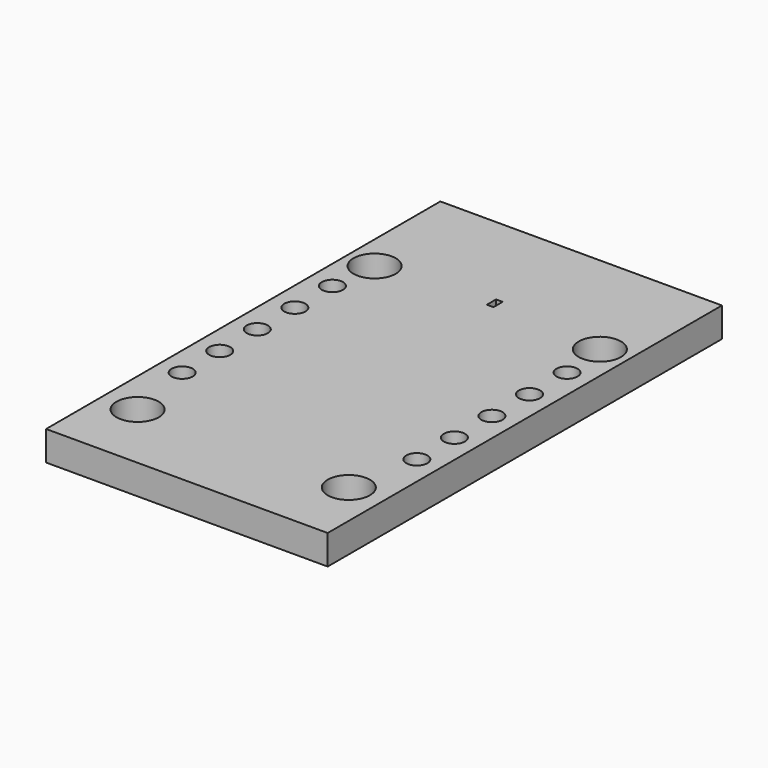
from build123d import *

# Parameters (mm, degrees)
F0_W     = 15.24
F0_H     = 26.67
F0_R     = 1.143
F0_R_2   = 0.5715
F0_W_2   = 0.357356
F0_H_2   = 0.6212
F1_DEPTH = 1.6


with BuildPart() as f1:
    # F0 (on Top) → F1 (new body)
    with BuildSketch(Plane.XY):
        Rectangle(F0_W, F0_H)
        with Locations((-5.715, -9.525)):
            Circle(F0_R, mode=Mode.SUBTRACT)
        with Locations((-6.35, -5.715)):
            Circle(F0_R_2, mode=Mode.SUBTRACT)
        with Locations((-6.35, -3.175)):
            Circle(F0_R_2, mode=Mode.SUBTRACT)
        with Locations((-6.35, -0.635)):
            Circle(F0_R_2, mode=Mode.SUBTRACT)
        with Locations((5.715, -9.525)):
            Circle(F0_R, mode=Mode.SUBTRACT)
        with Locations((6.35, -5.715)):
            Circle(F0_R_2, mode=Mode.SUBTRACT)
        with Locations((6.35, -3.175)):
            Circle(F0_R_2, mode=Mode.SUBTRACT)
        with Locations((6.35, -0.635)):
            Circle(F0_R_2, mode=Mode.SUBTRACT)
        with Locations((-6.35, 1.905)):
            Circle(F0_R_2, mode=Mode.SUBTRACT)
        with Locations((-6.35, 4.445)):
            Circle(F0_R_2, mode=Mode.SUBTRACT)
        with Locations((-6.096, 6.985)):
            Circle(F0_R, mode=Mode.SUBTRACT)
        with Locations((6.35, 1.905)):
            Circle(F0_R_2, mode=Mode.SUBTRACT)
        with Locations((6.35, 4.445)):
            Circle(F0_R_2, mode=Mode.SUBTRACT)
        with Locations((0, 7.493)):
            Rectangle(F0_W_2, F0_H_2, mode=Mode.SUBTRACT)
        with Locations((6.096, 6.985)):
            Circle(F0_R, mode=Mode.SUBTRACT)
    extrude(amount=F1_DEPTH)


solid = f1.part
